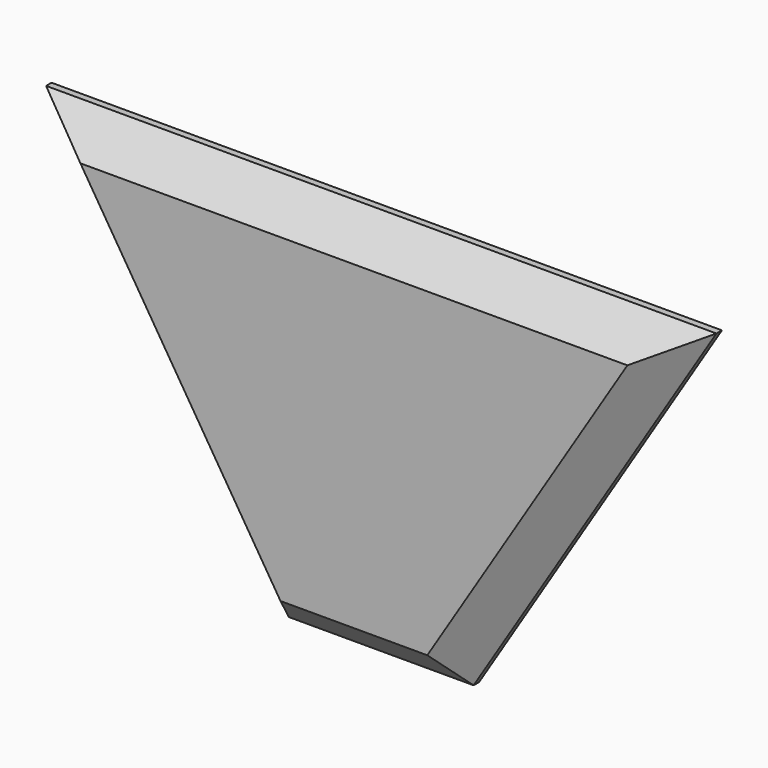
from build123d import *

# Parameters (mm, degrees)
F1_DEPTH = 6
F2_SIZE  = 5


with BuildPart() as f1:
    # F0 (on Front) → F1 (new body)
    with BuildSketch(Plane.XZ):
        Polygon((49, 56.822091), (-49, 56.822091), (-13.5, 0), (13.5, 0), align=None)
    extrude(amount=F1_DEPTH)

    # F2
    f2_edges = [f1.edges().sort_by_distance(p)[0] for p in [
        (-31.25, -6, 28.411045),
        (0, -6, 56.822091),
        (31.25, -6, 28.411045),
        (0, -6, 0),
    ]]
    chamfer(f2_edges, length=F2_SIZE)


solid = f1.part
